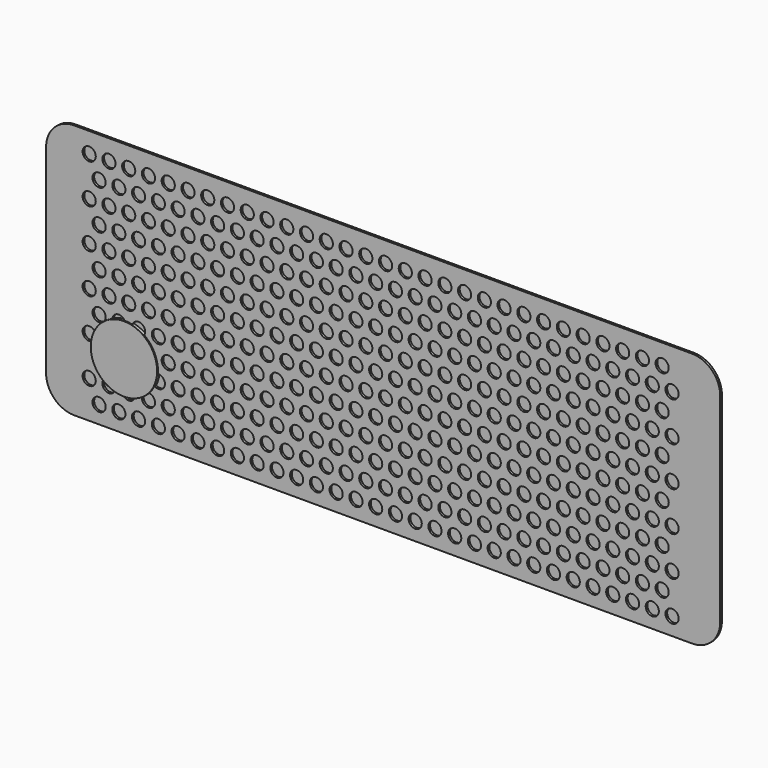
from build123d import *

# Parameters (mm, degrees)
F0_R          = 1.5875
F1_DEPTH      = 0.508
F2_W          = 153.419919312
F2_H          = 57.291561259
F3_DEPTH      = 0.508
F4_R          = 8
F5_DEPTH      = 0.508
F5_DEPTH_BACK = 0.254


with BuildPart() as f1:
    # F0 (on Front) → F1 (new body)
    with BuildSketch(Plane.XZ):
        with BuildLine():
            Line((75.5389979759, 16.9910898476), (-73.4410020241, 16.9910898476))
            ThreePointArc((-73.4410020241, 16.9910898476), (-78.2210438649, 15.0111316884), (-80.2010020241, 10.2310898476))
            Line((-80.2010020241, 10.2310898476), (-80.2010020241, -37.7489101524))
            ThreePointArc((-80.2010020241, -37.7489101524), (-78.2210438649, -42.5289519933), (-73.4410020241, -44.5089101524))
            Line((-73.4410020241, -44.5089101524), (75.5389979759, -44.5089101524))
            ThreePointArc((75.5389979759, -44.5089101524), (80.3190398167, -42.5289519933), (82.2989979759, -37.7489101524))
            Line((82.2989979759, -37.7489101524), (82.2989979759, 10.2310898476))
            ThreePointArc((82.2989979759, 10.2310898476), (80.3190398167, 15.0111316884), (75.5389979759, 16.9910898476))
        make_face()
        with Locations((-67.4290734172, -40.2764843822)):
            Circle(F0_R, mode=Mode.SUBTRACT)
        with Locations((-62.6665734172, -40.2764843822)):
            Circle(F0_R, mode=Mode.SUBTRACT)
        with Locations((-57.9040734172, -40.2764843822)):
            Circle(F0_R, mode=Mode.SUBTRACT)
        with Locations((-53.1415734172, -40.2764843822)):
            Circle(F0_R, mode=Mode.SUBTRACT)
        with Locations((-48.3790734172, -40.2764843822)):
            Circle(F0_R, mode=Mode.SUBTRACT)
        with Locations((-43.6165734172, -40.2764843822)):
            Circle(F0_R, mode=Mode.SUBTRACT)
        with Locations((-69.8103234172, -35.5139843822)):
            Circle(F0_R, mode=Mode.SUBTRACT)
        with Locations((-65.0478234172, -35.5139843822)):
            Circle(F0_R, mode=Mode.SUBTRACT)
        with Locations((-60.2853234172, -35.5139843822)):
            Circle(F0_R, mode=Mode.SUBTRACT)
        with Locations((-67.4290734172, -30.7514843822)):
            Circle(F0_R, mode=Mode.SUBTRACT)
        with Locations((-62.6665734172, -30.7514843822)):
            Circle(F0_R, mode=Mode.SUBTRACT)
        with Locations((-55.5228234172, -35.5139843822)):
            Circle(F0_R, mode=Mode.SUBTRACT)
        with Locations((-50.7603234172, -35.5139843822)):
            Circle(F0_R, mode=Mode.SUBTRACT)
        with Locations((-45.9978234172, -35.5139843822)):
            Circle(F0_R, mode=Mode.SUBTRACT)
        with Locations((-41.2353234172, -35.5139843822)):
            Circle(F0_R, mode=Mode.SUBTRACT)
        with Locations((-57.9040734172, -30.7514843822)):
            Circle(F0_R, mode=Mode.SUBTRACT)
        with Locations((-53.1415734172, -30.7514843822)):
            Circle(F0_R, mode=Mode.SUBTRACT)
        with Locations((-48.3790734172, -30.7514843822)):
            Circle(F0_R, mode=Mode.SUBTRACT)
        with Locations((-43.6165734172, -30.7514843822)):
            Circle(F0_R, mode=Mode.SUBTRACT)
        with Locations((-38.8540734172, -40.2764843822)):
            Circle(F0_R, mode=Mode.SUBTRACT)
        with Locations((-34.0915734172, -40.2764843822)):
            Circle(F0_R, mode=Mode.SUBTRACT)
        with Locations((-29.3290734172, -40.2764843822)):
            Circle(F0_R, mode=Mode.SUBTRACT)
        with Locations((-24.5665734172, -40.2764843822)):
            Circle(F0_R, mode=Mode.SUBTRACT)
        with Locations((-19.8040734172, -40.2764843822)):
            Circle(F0_R, mode=Mode.SUBTRACT)
        with Locations((-15.0415734172, -40.2764843822)):
            Circle(F0_R, mode=Mode.SUBTRACT)
        with Locations((-10.2790734172, -40.2764843822)):
            Circle(F0_R, mode=Mode.SUBTRACT)
        with Locations((-5.5165734172, -40.2764843822)):
            Circle(F0_R, mode=Mode.SUBTRACT)
        with Locations((-0.7540734172, -40.2764843822)):
            Circle(F0_R, mode=Mode.SUBTRACT)
        with Locations((-36.4728234172, -35.5139843822)):
            Circle(F0_R, mode=Mode.SUBTRACT)
        with Locations((-31.7103234172, -35.5139843822)):
            Circle(F0_R, mode=Mode.SUBTRACT)
        with Locations((-26.9478234172, -35.5139843822)):
            Circle(F0_R, mode=Mode.SUBTRACT)
        with Locations((-22.1853234172, -35.5139843822)):
            Circle(F0_R, mode=Mode.SUBTRACT)
        with Locations((-38.8540734172, -30.7514843822)):
            Circle(F0_R, mode=Mode.SUBTRACT)
        with Locations((-34.0915734172, -30.7514843822)):
            Circle(F0_R, mode=Mode.SUBTRACT)
        with Locations((-29.3290734172, -30.7514843822)):
            Circle(F0_R, mode=Mode.SUBTRACT)
        with Locations((-24.5665734172, -30.7514843822)):
            Circle(F0_R, mode=Mode.SUBTRACT)
        with Locations((-19.8040734172, -30.7514843822)):
            Circle(F0_R, mode=Mode.SUBTRACT)
        with Locations((-17.4228234172, -35.5139843822)):
            Circle(F0_R, mode=Mode.SUBTRACT)
        with Locations((-12.6603234172, -35.5139843822)):
            Circle(F0_R, mode=Mode.SUBTRACT)
        with Locations((-7.8978234172, -35.5139843822)):
            Circle(F0_R, mode=Mode.SUBTRACT)
        with Locations((-3.1353234172, -35.5139843822)):
            Circle(F0_R, mode=Mode.SUBTRACT)
        with Locations((-15.0415734172, -30.7514843822)):
            Circle(F0_R, mode=Mode.SUBTRACT)
        with Locations((-10.2790734172, -30.7514843822)):
            Circle(F0_R, mode=Mode.SUBTRACT)
        with Locations((-5.5165734172, -30.7514843822)):
            Circle(F0_R, mode=Mode.SUBTRACT)
        with Locations((-0.7540734172, -30.7514843822)):
            Circle(F0_R, mode=Mode.SUBTRACT)
        with Locations((-69.8103234172, -25.9889843822)):
            Circle(F0_R, mode=Mode.SUBTRACT)
        with Locations((-65.0478234172, -25.9889843822)):
            Circle(F0_R, mode=Mode.SUBTRACT)
        with Locations((-60.2853234172, -25.9889843822)):
            Circle(F0_R, mode=Mode.SUBTRACT)
        with Locations((-55.5228234172, -25.9889843822)):
            Circle(F0_R, mode=Mode.SUBTRACT)
        with Locations((-50.7603234172, -25.9889843822)):
            Circle(F0_R, mode=Mode.SUBTRACT)
        with Locations((-45.9978234172, -25.9889843822)):
            Circle(F0_R, mode=Mode.SUBTRACT)
        with Locations((-41.2353234172, -25.9889843822)):
            Circle(F0_R, mode=Mode.SUBTRACT)
        with Locations((-67.4290734172, -21.2264843822)):
            Circle(F0_R, mode=Mode.SUBTRACT)
        with Locations((-62.6665734172, -21.2264843822)):
            Circle(F0_R, mode=Mode.SUBTRACT)
        with Locations((-69.8103234172, -16.4639843822)):
            Circle(F0_R, mode=Mode.SUBTRACT)
        with Locations((-65.0478234172, -16.4639843822)):
            Circle(F0_R, mode=Mode.SUBTRACT)
        with Locations((-60.2853234172, -16.4639843822)):
            Circle(F0_R, mode=Mode.SUBTRACT)
        with Locations((-57.9040734172, -21.2264843822)):
            Circle(F0_R, mode=Mode.SUBTRACT)
        with Locations((-53.1415734172, -21.2264843822)):
            Circle(F0_R, mode=Mode.SUBTRACT)
        with Locations((-48.3790734172, -21.2264843822)):
            Circle(F0_R, mode=Mode.SUBTRACT)
        with Locations((-43.6165734172, -21.2264843822)):
            Circle(F0_R, mode=Mode.SUBTRACT)
        with Locations((-55.5228234172, -16.4639843822)):
            Circle(F0_R, mode=Mode.SUBTRACT)
        with Locations((-50.7603234172, -16.4639843822)):
            Circle(F0_R, mode=Mode.SUBTRACT)
        with Locations((-45.9978234172, -16.4639843822)):
            Circle(F0_R, mode=Mode.SUBTRACT)
        with Locations((-41.2353234172, -16.4639843822)):
            Circle(F0_R, mode=Mode.SUBTRACT)
        with Locations((-36.4728234172, -25.9889843822)):
            Circle(F0_R, mode=Mode.SUBTRACT)
        with Locations((-31.7103234172, -25.9889843822)):
            Circle(F0_R, mode=Mode.SUBTRACT)
        with Locations((-26.9478234172, -25.9889843822)):
            Circle(F0_R, mode=Mode.SUBTRACT)
        with Locations((-22.1853234172, -25.9889843822)):
            Circle(F0_R, mode=Mode.SUBTRACT)
        with Locations((-17.4228234172, -25.9889843822)):
            Circle(F0_R, mode=Mode.SUBTRACT)
        with Locations((-12.6603234172, -25.9889843822)):
            Circle(F0_R, mode=Mode.SUBTRACT)
        with Locations((-7.8978234172, -25.9889843822)):
            Circle(F0_R, mode=Mode.SUBTRACT)
        with Locations((-3.1353234172, -25.9889843822)):
            Circle(F0_R, mode=Mode.SUBTRACT)
        with Locations((-38.8540734172, -21.2264843822)):
            Circle(F0_R, mode=Mode.SUBTRACT)
        with Locations((-34.0915734172, -21.2264843822)):
            Circle(F0_R, mode=Mode.SUBTRACT)
        with Locations((-29.3290734172, -21.2264843822)):
            Circle(F0_R, mode=Mode.SUBTRACT)
        with Locations((-24.5665734172, -21.2264843822)):
            Circle(F0_R, mode=Mode.SUBTRACT)
        with Locations((-19.8040734172, -21.2264843822)):
            Circle(F0_R, mode=Mode.SUBTRACT)
        with Locations((-36.4728234172, -16.4639843822)):
            Circle(F0_R, mode=Mode.SUBTRACT)
        with Locations((-31.7103234172, -16.4639843822)):
            Circle(F0_R, mode=Mode.SUBTRACT)
        with Locations((-26.9478234172, -16.4639843822)):
            Circle(F0_R, mode=Mode.SUBTRACT)
        with Locations((-22.1853234172, -16.4639843822)):
            Circle(F0_R, mode=Mode.SUBTRACT)
        with Locations((-15.0415734172, -21.2264843822)):
            Circle(F0_R, mode=Mode.SUBTRACT)
        with Locations((-10.2790734172, -21.2264843822)):
            Circle(F0_R, mode=Mode.SUBTRACT)
        with Locations((-5.5165734172, -21.2264843822)):
            Circle(F0_R, mode=Mode.SUBTRACT)
        with Locations((-0.7540734172, -21.2264843822)):
            Circle(F0_R, mode=Mode.SUBTRACT)
        with Locations((-17.4228234172, -16.4639843822)):
            Circle(F0_R, mode=Mode.SUBTRACT)
        with Locations((-12.6603234172, -16.4639843822)):
            Circle(F0_R, mode=Mode.SUBTRACT)
        with Locations((-7.8978234172, -16.4639843822)):
            Circle(F0_R, mode=Mode.SUBTRACT)
        with Locations((-3.1353234172, -16.4639843822)):
            Circle(F0_R, mode=Mode.SUBTRACT)
        with Locations((4.0084265828, -40.2764843822)):
            Circle(F0_R, mode=Mode.SUBTRACT)
        with Locations((8.7709265828, -40.2764843822)):
            Circle(F0_R, mode=Mode.SUBTRACT)
        with Locations((13.5334265828, -40.2764843822)):
            Circle(F0_R, mode=Mode.SUBTRACT)
        with Locations((18.2959265828, -40.2764843822)):
            Circle(F0_R, mode=Mode.SUBTRACT)
        with Locations((23.0584265828, -40.2764843822)):
            Circle(F0_R, mode=Mode.SUBTRACT)
        with Locations((27.8209265828, -40.2764843822)):
            Circle(F0_R, mode=Mode.SUBTRACT)
        with Locations((32.5834265828, -40.2764843822)):
            Circle(F0_R, mode=Mode.SUBTRACT)
        with Locations((37.3459265828, -40.2764843822)):
            Circle(F0_R, mode=Mode.SUBTRACT)
        with Locations((1.6271765828, -35.5139843822)):
            Circle(F0_R, mode=Mode.SUBTRACT)
        with Locations((6.3896765828, -35.5139843822)):
            Circle(F0_R, mode=Mode.SUBTRACT)
        with Locations((11.1521765828, -35.5139843822)):
            Circle(F0_R, mode=Mode.SUBTRACT)
        with Locations((15.9146765828, -35.5139843822)):
            Circle(F0_R, mode=Mode.SUBTRACT)
        with Locations((20.6771765828, -35.5139843822)):
            Circle(F0_R, mode=Mode.SUBTRACT)
        with Locations((4.0084265828, -30.7514843822)):
            Circle(F0_R, mode=Mode.SUBTRACT)
        with Locations((8.7709265828, -30.7514843822)):
            Circle(F0_R, mode=Mode.SUBTRACT)
        with Locations((13.5334265828, -30.7514843822)):
            Circle(F0_R, mode=Mode.SUBTRACT)
        with Locations((18.2959265828, -30.7514843822)):
            Circle(F0_R, mode=Mode.SUBTRACT)
        with Locations((25.4396765828, -35.5139843822)):
            Circle(F0_R, mode=Mode.SUBTRACT)
        with Locations((30.2021765828, -35.5139843822)):
            Circle(F0_R, mode=Mode.SUBTRACT)
        with Locations((34.9646765828, -35.5139843822)):
            Circle(F0_R, mode=Mode.SUBTRACT)
        with Locations((39.7271765828, -35.5139843822)):
            Circle(F0_R, mode=Mode.SUBTRACT)
        with Locations((23.0584265828, -30.7514843822)):
            Circle(F0_R, mode=Mode.SUBTRACT)
        with Locations((27.8209265828, -30.7514843822)):
            Circle(F0_R, mode=Mode.SUBTRACT)
        with Locations((32.5834265828, -30.7514843822)):
            Circle(F0_R, mode=Mode.SUBTRACT)
        with Locations((37.3459265828, -30.7514843822)):
            Circle(F0_R, mode=Mode.SUBTRACT)
        with Locations((42.1084265828, -40.2764843822)):
            Circle(F0_R, mode=Mode.SUBTRACT)
        with Locations((46.8709265828, -40.2764843822)):
            Circle(F0_R, mode=Mode.SUBTRACT)
        with Locations((51.6334265828, -40.2764843822)):
            Circle(F0_R, mode=Mode.SUBTRACT)
        with Locations((56.3959265828, -40.2764843822)):
            Circle(F0_R, mode=Mode.SUBTRACT)
        with Locations((61.1584265828, -40.2764843822)):
            Circle(F0_R, mode=Mode.SUBTRACT)
        with Locations((65.9209265828, -40.2764843822)):
            Circle(F0_R, mode=Mode.SUBTRACT)
        with Locations((70.6834265828, -40.2764843822)):
            Circle(F0_R, mode=Mode.SUBTRACT)
        with Locations((44.4896765828, -35.5139843822)):
            Circle(F0_R, mode=Mode.SUBTRACT)
        with Locations((49.2521765828, -35.5139843822)):
            Circle(F0_R, mode=Mode.SUBTRACT)
        with Locations((54.0146765828, -35.5139843822)):
            Circle(F0_R, mode=Mode.SUBTRACT)
        with Locations((58.7771765828, -35.5139843822)):
            Circle(F0_R, mode=Mode.SUBTRACT)
        with Locations((42.1084265828, -30.7514843822)):
            Circle(F0_R, mode=Mode.SUBTRACT)
        with Locations((46.8709265828, -30.7514843822)):
            Circle(F0_R, mode=Mode.SUBTRACT)
        with Locations((51.6334265828, -30.7514843822)):
            Circle(F0_R, mode=Mode.SUBTRACT)
        with Locations((56.3959265828, -30.7514843822)):
            Circle(F0_R, mode=Mode.SUBTRACT)
        with Locations((61.1584265828, -30.7514843822)):
            Circle(F0_R, mode=Mode.SUBTRACT)
        with Locations((63.5396765828, -35.5139843822)):
            Circle(F0_R, mode=Mode.SUBTRACT)
        with Locations((68.3021765828, -35.5139843822)):
            Circle(F0_R, mode=Mode.SUBTRACT)
        with Locations((65.9209265828, -30.7514843822)):
            Circle(F0_R, mode=Mode.SUBTRACT)
        with Locations((70.6834265828, -30.7514843822)):
            Circle(F0_R, mode=Mode.SUBTRACT)
        with Locations((1.6271765828, -25.9889843822)):
            Circle(F0_R, mode=Mode.SUBTRACT)
        with Locations((6.3896765828, -25.9889843822)):
            Circle(F0_R, mode=Mode.SUBTRACT)
        with Locations((11.1521765828, -25.9889843822)):
            Circle(F0_R, mode=Mode.SUBTRACT)
        with Locations((15.9146765828, -25.9889843822)):
            Circle(F0_R, mode=Mode.SUBTRACT)
        with Locations((20.6771765828, -25.9889843822)):
            Circle(F0_R, mode=Mode.SUBTRACT)
        with Locations((25.4396765828, -25.9889843822)):
            Circle(F0_R, mode=Mode.SUBTRACT)
        with Locations((30.2021765828, -25.9889843822)):
            Circle(F0_R, mode=Mode.SUBTRACT)
        with Locations((34.9646765828, -25.9889843822)):
            Circle(F0_R, mode=Mode.SUBTRACT)
        with Locations((39.7271765828, -25.9889843822)):
            Circle(F0_R, mode=Mode.SUBTRACT)
        with Locations((4.0084265828, -21.2264843822)):
            Circle(F0_R, mode=Mode.SUBTRACT)
        with Locations((8.7709265828, -21.2264843822)):
            Circle(F0_R, mode=Mode.SUBTRACT)
        with Locations((13.5334265828, -21.2264843822)):
            Circle(F0_R, mode=Mode.SUBTRACT)
        with Locations((18.2959265828, -21.2264843822)):
            Circle(F0_R, mode=Mode.SUBTRACT)
        with Locations((1.6271765828, -16.4639843822)):
            Circle(F0_R, mode=Mode.SUBTRACT)
        with Locations((6.3896765828, -16.4639843822)):
            Circle(F0_R, mode=Mode.SUBTRACT)
        with Locations((11.1521765828, -16.4639843822)):
            Circle(F0_R, mode=Mode.SUBTRACT)
        with Locations((15.9146765828, -16.4639843822)):
            Circle(F0_R, mode=Mode.SUBTRACT)
        with Locations((20.6771765828, -16.4639843822)):
            Circle(F0_R, mode=Mode.SUBTRACT)
        with Locations((23.0584265828, -21.2264843822)):
            Circle(F0_R, mode=Mode.SUBTRACT)
        with Locations((27.8209265828, -21.2264843822)):
            Circle(F0_R, mode=Mode.SUBTRACT)
        with Locations((32.5834265828, -21.2264843822)):
            Circle(F0_R, mode=Mode.SUBTRACT)
        with Locations((37.3459265828, -21.2264843822)):
            Circle(F0_R, mode=Mode.SUBTRACT)
        with Locations((25.4396765828, -16.4639843822)):
            Circle(F0_R, mode=Mode.SUBTRACT)
        with Locations((30.2021765828, -16.4639843822)):
            Circle(F0_R, mode=Mode.SUBTRACT)
        with Locations((34.9646765828, -16.4639843822)):
            Circle(F0_R, mode=Mode.SUBTRACT)
        with Locations((39.7271765828, -16.4639843822)):
            Circle(F0_R, mode=Mode.SUBTRACT)
        with Locations((44.4896765828, -25.9889843822)):
            Circle(F0_R, mode=Mode.SUBTRACT)
        with Locations((49.2521765828, -25.9889843822)):
            Circle(F0_R, mode=Mode.SUBTRACT)
        with Locations((54.0146765828, -25.9889843822)):
            Circle(F0_R, mode=Mode.SUBTRACT)
        with Locations((58.7771765828, -25.9889843822)):
            Circle(F0_R, mode=Mode.SUBTRACT)
        with Locations((63.5396765828, -25.9889843822)):
            Circle(F0_R, mode=Mode.SUBTRACT)
        with Locations((68.3021765828, -25.9889843822)):
            Circle(F0_R, mode=Mode.SUBTRACT)
        with Locations((42.1084265828, -21.2264843822)):
            Circle(F0_R, mode=Mode.SUBTRACT)
        with Locations((46.8709265828, -21.2264843822)):
            Circle(F0_R, mode=Mode.SUBTRACT)
        with Locations((51.6334265828, -21.2264843822)):
            Circle(F0_R, mode=Mode.SUBTRACT)
        with Locations((56.3959265828, -21.2264843822)):
            Circle(F0_R, mode=Mode.SUBTRACT)
        with Locations((61.1584265828, -21.2264843822)):
            Circle(F0_R, mode=Mode.SUBTRACT)
        with Locations((44.4896765828, -16.4639843822)):
            Circle(F0_R, mode=Mode.SUBTRACT)
        with Locations((49.2521765828, -16.4639843822)):
            Circle(F0_R, mode=Mode.SUBTRACT)
        with Locations((54.0146765828, -16.4639843822)):
            Circle(F0_R, mode=Mode.SUBTRACT)
        with Locations((58.7771765828, -16.4639843822)):
            Circle(F0_R, mode=Mode.SUBTRACT)
        with Locations((65.9209265828, -21.2264843822)):
            Circle(F0_R, mode=Mode.SUBTRACT)
        with Locations((70.6834265828, -21.2264843822)):
            Circle(F0_R, mode=Mode.SUBTRACT)
        with Locations((63.5396765828, -16.4639843822)):
            Circle(F0_R, mode=Mode.SUBTRACT)
        with Locations((68.3021765828, -16.4639843822)):
            Circle(F0_R, mode=Mode.SUBTRACT)
        with Locations((-67.4290734172, -11.7014843822)):
            Circle(F0_R, mode=Mode.SUBTRACT)
        with Locations((-62.6665734172, -11.7014843822)):
            Circle(F0_R, mode=Mode.SUBTRACT)
        with Locations((-69.8103234172, -6.9389843822)):
            Circle(F0_R, mode=Mode.SUBTRACT)
        with Locations((-65.0478234172, -6.9389843822)):
            Circle(F0_R, mode=Mode.SUBTRACT)
        with Locations((-60.2853234172, -6.9389843822)):
            Circle(F0_R, mode=Mode.SUBTRACT)
        with Locations((-57.9040734172, -11.7014843822)):
            Circle(F0_R, mode=Mode.SUBTRACT)
        with Locations((-53.1415734172, -11.7014843822)):
            Circle(F0_R, mode=Mode.SUBTRACT)
        with Locations((-48.3790734172, -11.7014843822)):
            Circle(F0_R, mode=Mode.SUBTRACT)
        with Locations((-43.6165734172, -11.7014843822)):
            Circle(F0_R, mode=Mode.SUBTRACT)
        with Locations((-55.5228234172, -6.9389843822)):
            Circle(F0_R, mode=Mode.SUBTRACT)
        with Locations((-50.7603234172, -6.9389843822)):
            Circle(F0_R, mode=Mode.SUBTRACT)
        with Locations((-45.9978234172, -6.9389843822)):
            Circle(F0_R, mode=Mode.SUBTRACT)
        with Locations((-41.2353234172, -6.9389843822)):
            Circle(F0_R, mode=Mode.SUBTRACT)
        with Locations((-67.4290734172, -2.1764843822)):
            Circle(F0_R, mode=Mode.SUBTRACT)
        with Locations((-62.6665734172, -2.1764843822)):
            Circle(F0_R, mode=Mode.SUBTRACT)
        with Locations((-57.9040734172, -2.1764843822)):
            Circle(F0_R, mode=Mode.SUBTRACT)
        with Locations((-53.1415734172, -2.1764843822)):
            Circle(F0_R, mode=Mode.SUBTRACT)
        with Locations((-48.3790734172, -2.1764843822)):
            Circle(F0_R, mode=Mode.SUBTRACT)
        with Locations((-43.6165734172, -2.1764843822)):
            Circle(F0_R, mode=Mode.SUBTRACT)
        with Locations((-38.8540734172, -11.7014843822)):
            Circle(F0_R, mode=Mode.SUBTRACT)
        with Locations((-34.0915734172, -11.7014843822)):
            Circle(F0_R, mode=Mode.SUBTRACT)
        with Locations((-29.3290734172, -11.7014843822)):
            Circle(F0_R, mode=Mode.SUBTRACT)
        with Locations((-24.5665734172, -11.7014843822)):
            Circle(F0_R, mode=Mode.SUBTRACT)
        with Locations((-19.8040734172, -11.7014843822)):
            Circle(F0_R, mode=Mode.SUBTRACT)
        with Locations((-36.4728234172, -6.9389843822)):
            Circle(F0_R, mode=Mode.SUBTRACT)
        with Locations((-31.7103234172, -6.9389843822)):
            Circle(F0_R, mode=Mode.SUBTRACT)
        with Locations((-26.9478234172, -6.9389843822)):
            Circle(F0_R, mode=Mode.SUBTRACT)
        with Locations((-22.1853234172, -6.9389843822)):
            Circle(F0_R, mode=Mode.SUBTRACT)
        with Locations((-15.0415734172, -11.7014843822)):
            Circle(F0_R, mode=Mode.SUBTRACT)
        with Locations((-10.2790734172, -11.7014843822)):
            Circle(F0_R, mode=Mode.SUBTRACT)
        with Locations((-5.5165734172, -11.7014843822)):
            Circle(F0_R, mode=Mode.SUBTRACT)
        with Locations((-0.7540734172, -11.7014843822)):
            Circle(F0_R, mode=Mode.SUBTRACT)
        with Locations((-17.4228234172, -6.9389843822)):
            Circle(F0_R, mode=Mode.SUBTRACT)
        with Locations((-12.6603234172, -6.9389843822)):
            Circle(F0_R, mode=Mode.SUBTRACT)
        with Locations((-7.8978234172, -6.9389843822)):
            Circle(F0_R, mode=Mode.SUBTRACT)
        with Locations((-3.1353234172, -6.9389843822)):
            Circle(F0_R, mode=Mode.SUBTRACT)
        with Locations((-38.8540734172, -2.1764843822)):
            Circle(F0_R, mode=Mode.SUBTRACT)
        with Locations((-34.0915734172, -2.1764843822)):
            Circle(F0_R, mode=Mode.SUBTRACT)
        with Locations((-29.3290734172, -2.1764843822)):
            Circle(F0_R, mode=Mode.SUBTRACT)
        with Locations((-24.5665734172, -2.1764843822)):
            Circle(F0_R, mode=Mode.SUBTRACT)
        with Locations((-19.8040734172, -2.1764843822)):
            Circle(F0_R, mode=Mode.SUBTRACT)
        with Locations((-15.0415734172, -2.1764843822)):
            Circle(F0_R, mode=Mode.SUBTRACT)
        with Locations((-10.2790734172, -2.1764843822)):
            Circle(F0_R, mode=Mode.SUBTRACT)
        with Locations((-5.5165734172, -2.1764843822)):
            Circle(F0_R, mode=Mode.SUBTRACT)
        with Locations((-0.7540734172, -2.1764843822)):
            Circle(F0_R, mode=Mode.SUBTRACT)
        with Locations((-69.8103234172, 2.5860156178)):
            Circle(F0_R, mode=Mode.SUBTRACT)
        with BuildLine():
            ThreePointArc((-63.4603234172, 2.5860156178), (-65.8824215577, 1.2356074596), (-65.757775, 4.0059187836))
            ThreePointArc((-65.757775, 4.0059187836), (-64.2132252767, 3.9364237761), (-63.4603234172, 2.5860156178))
        make_face(mode=Mode.SUBTRACT)
        with Locations((-60.2853234172, 2.5860156178)):
            Circle(F0_R, mode=Mode.SUBTRACT)
        with BuildLine():
            ThreePointArc((-66.7191218343, 5.9286124521), (-68.8489765829, 6.638564035), (-68.139025, 8.7684187836))
            ThreePointArc((-68.139025, 8.7684187836), (-66.5944752767, 8.6989237761), (-65.8415734172, 7.3485156178))
            ThreePointArc((-65.8415734172, 7.3485156178), (-66.0786652589, 6.5139174774), (-66.7191218343, 5.9286124521))
        make_face(mode=Mode.SUBTRACT)
        with Locations((-62.6665734172, 7.3485156178)):
            Circle(F0_R, mode=Mode.SUBTRACT)
        with Locations((-55.5228234172, 2.5860156178)):
            Circle(F0_R, mode=Mode.SUBTRACT)
        with Locations((-50.7603234172, 2.5860156178)):
            Circle(F0_R, mode=Mode.SUBTRACT)
        with Locations((-45.9978234172, 2.5860156178)):
            Circle(F0_R, mode=Mode.SUBTRACT)
        with Locations((-41.2353234172, 2.5860156178)):
            Circle(F0_R, mode=Mode.SUBTRACT)
        with Locations((-57.9040734172, 7.3485156178)):
            Circle(F0_R, mode=Mode.SUBTRACT)
        with Locations((-53.1415734172, 7.3485156178)):
            Circle(F0_R, mode=Mode.SUBTRACT)
        with Locations((-48.3790734172, 7.3485156178)):
            Circle(F0_R, mode=Mode.SUBTRACT)
        with Locations((-43.6165734172, 7.3485156178)):
            Circle(F0_R, mode=Mode.SUBTRACT)
        with BuildLine():
            ThreePointArc((-69.1003718343, 10.6911124521), (-71.1607315754, 12.9456137583), (-68.2228234172, 12.1110156178))
            ThreePointArc((-68.2228234172, 12.1110156178), (-68.4599152589, 11.2764174774), (-69.1003718343, 10.6911124521))
        make_face(mode=Mode.SUBTRACT)
        with Locations((-65.0478234172, 12.1110156178)):
            Circle(F0_R, mode=Mode.SUBTRACT)
        with Locations((-60.2853234172, 12.1110156178)):
            Circle(F0_R, mode=Mode.SUBTRACT)
        with Locations((-55.5228234172, 12.1110156178)):
            Circle(F0_R, mode=Mode.SUBTRACT)
        with Locations((-50.7603234172, 12.1110156178)):
            Circle(F0_R, mode=Mode.SUBTRACT)
        with Locations((-45.9978234172, 12.1110156178)):
            Circle(F0_R, mode=Mode.SUBTRACT)
        with Locations((-41.2353234172, 12.1110156178)):
            Circle(F0_R, mode=Mode.SUBTRACT)
        with Locations((-36.4728234172, 2.5860156178)):
            Circle(F0_R, mode=Mode.SUBTRACT)
        with Locations((-31.7103234172, 2.5860156178)):
            Circle(F0_R, mode=Mode.SUBTRACT)
        with Locations((-26.9478234172, 2.5860156178)):
            Circle(F0_R, mode=Mode.SUBTRACT)
        with Locations((-22.1853234172, 2.5860156178)):
            Circle(F0_R, mode=Mode.SUBTRACT)
        with Locations((-38.8540734172, 7.3485156178)):
            Circle(F0_R, mode=Mode.SUBTRACT)
        with Locations((-34.0915734172, 7.3485156178)):
            Circle(F0_R, mode=Mode.SUBTRACT)
        with Locations((-29.3290734172, 7.3485156178)):
            Circle(F0_R, mode=Mode.SUBTRACT)
        with Locations((-24.5665734172, 7.3485156178)):
            Circle(F0_R, mode=Mode.SUBTRACT)
        with Locations((-19.8040734172, 7.3485156178)):
            Circle(F0_R, mode=Mode.SUBTRACT)
        with Locations((-17.4228234172, 2.5860156178)):
            Circle(F0_R, mode=Mode.SUBTRACT)
        with Locations((-12.6603234172, 2.5860156178)):
            Circle(F0_R, mode=Mode.SUBTRACT)
        with Locations((-7.8978234172, 2.5860156178)):
            Circle(F0_R, mode=Mode.SUBTRACT)
        with Locations((-3.1353234172, 2.5860156178)):
            Circle(F0_R, mode=Mode.SUBTRACT)
        with Locations((-15.0415734172, 7.3485156178)):
            Circle(F0_R, mode=Mode.SUBTRACT)
        with Locations((-10.2790734172, 7.3485156178)):
            Circle(F0_R, mode=Mode.SUBTRACT)
        with Locations((-5.5165734172, 7.3485156178)):
            Circle(F0_R, mode=Mode.SUBTRACT)
        with Locations((-0.7540734172, 7.3485156178)):
            Circle(F0_R, mode=Mode.SUBTRACT)
        with Locations((-36.4728234172, 12.1110156178)):
            Circle(F0_R, mode=Mode.SUBTRACT)
        with Locations((-31.7103234172, 12.1110156178)):
            Circle(F0_R, mode=Mode.SUBTRACT)
        with Locations((-26.9478234172, 12.1110156178)):
            Circle(F0_R, mode=Mode.SUBTRACT)
        with Locations((-22.1853234172, 12.1110156178)):
            Circle(F0_R, mode=Mode.SUBTRACT)
        with Locations((-17.4228234172, 12.1110156178)):
            Circle(F0_R, mode=Mode.SUBTRACT)
        with Locations((-12.6603234172, 12.1110156178)):
            Circle(F0_R, mode=Mode.SUBTRACT)
        with Locations((-7.8978234172, 12.1110156178)):
            Circle(F0_R, mode=Mode.SUBTRACT)
        with Locations((-3.1353234172, 12.1110156178)):
            Circle(F0_R, mode=Mode.SUBTRACT)
        with Locations((4.0084265828, -11.7014843822)):
            Circle(F0_R, mode=Mode.SUBTRACT)
        with Locations((8.7709265828, -11.7014843822)):
            Circle(F0_R, mode=Mode.SUBTRACT)
        with Locations((13.5334265828, -11.7014843822)):
            Circle(F0_R, mode=Mode.SUBTRACT)
        with Locations((18.2959265828, -11.7014843822)):
            Circle(F0_R, mode=Mode.SUBTRACT)
        with Locations((1.6271765828, -6.9389843822)):
            Circle(F0_R, mode=Mode.SUBTRACT)
        with Locations((6.3896765828, -6.9389843822)):
            Circle(F0_R, mode=Mode.SUBTRACT)
        with Locations((11.1521765828, -6.9389843822)):
            Circle(F0_R, mode=Mode.SUBTRACT)
        with Locations((15.9146765828, -6.9389843822)):
            Circle(F0_R, mode=Mode.SUBTRACT)
        with Locations((20.6771765828, -6.9389843822)):
            Circle(F0_R, mode=Mode.SUBTRACT)
        with Locations((23.0584265828, -11.7014843822)):
            Circle(F0_R, mode=Mode.SUBTRACT)
        with Locations((27.8209265828, -11.7014843822)):
            Circle(F0_R, mode=Mode.SUBTRACT)
        with Locations((32.5834265828, -11.7014843822)):
            Circle(F0_R, mode=Mode.SUBTRACT)
        with Locations((37.3459265828, -11.7014843822)):
            Circle(F0_R, mode=Mode.SUBTRACT)
        with Locations((25.4396765828, -6.9389843822)):
            Circle(F0_R, mode=Mode.SUBTRACT)
        with Locations((30.2021765828, -6.9389843822)):
            Circle(F0_R, mode=Mode.SUBTRACT)
        with Locations((34.9646765828, -6.9389843822)):
            Circle(F0_R, mode=Mode.SUBTRACT)
        with Locations((39.7271765828, -6.9389843822)):
            Circle(F0_R, mode=Mode.SUBTRACT)
        with Locations((4.0084265828, -2.1764843822)):
            Circle(F0_R, mode=Mode.SUBTRACT)
        with Locations((8.7709265828, -2.1764843822)):
            Circle(F0_R, mode=Mode.SUBTRACT)
        with Locations((13.5334265828, -2.1764843822)):
            Circle(F0_R, mode=Mode.SUBTRACT)
        with Locations((18.2959265828, -2.1764843822)):
            Circle(F0_R, mode=Mode.SUBTRACT)
        with Locations((23.0584265828, -2.1764843822)):
            Circle(F0_R, mode=Mode.SUBTRACT)
        with Locations((27.8209265828, -2.1764843822)):
            Circle(F0_R, mode=Mode.SUBTRACT)
        with Locations((32.5834265828, -2.1764843822)):
            Circle(F0_R, mode=Mode.SUBTRACT)
        with Locations((37.3459265828, -2.1764843822)):
            Circle(F0_R, mode=Mode.SUBTRACT)
        with Locations((42.1084265828, -11.7014843822)):
            Circle(F0_R, mode=Mode.SUBTRACT)
        with Locations((46.8709265828, -11.7014843822)):
            Circle(F0_R, mode=Mode.SUBTRACT)
        with Locations((51.6334265828, -11.7014843822)):
            Circle(F0_R, mode=Mode.SUBTRACT)
        with Locations((56.3959265828, -11.7014843822)):
            Circle(F0_R, mode=Mode.SUBTRACT)
        with Locations((61.1584265828, -11.7014843822)):
            Circle(F0_R, mode=Mode.SUBTRACT)
        with Locations((44.4896765828, -6.9389843822)):
            Circle(F0_R, mode=Mode.SUBTRACT)
        with Locations((49.2521765828, -6.9389843822)):
            Circle(F0_R, mode=Mode.SUBTRACT)
        with Locations((54.0146765828, -6.9389843822)):
            Circle(F0_R, mode=Mode.SUBTRACT)
        with Locations((58.7771765828, -6.9389843822)):
            Circle(F0_R, mode=Mode.SUBTRACT)
        with Locations((65.9209265828, -11.7014843822)):
            Circle(F0_R, mode=Mode.SUBTRACT)
        with Locations((70.6834265828, -11.7014843822)):
            Circle(F0_R, mode=Mode.SUBTRACT)
        with Locations((63.5396765828, -6.9389843822)):
            Circle(F0_R, mode=Mode.SUBTRACT)
        with Locations((68.3021765828, -6.9389843822)):
            Circle(F0_R, mode=Mode.SUBTRACT)
        with Locations((42.1084265828, -2.1764843822)):
            Circle(F0_R, mode=Mode.SUBTRACT)
        with Locations((46.8709265828, -2.1764843822)):
            Circle(F0_R, mode=Mode.SUBTRACT)
        with Locations((51.6334265828, -2.1764843822)):
            Circle(F0_R, mode=Mode.SUBTRACT)
        with Locations((56.3959265828, -2.1764843822)):
            Circle(F0_R, mode=Mode.SUBTRACT)
        with Locations((61.1584265828, -2.1764843822)):
            Circle(F0_R, mode=Mode.SUBTRACT)
        with Locations((65.9209265828, -2.1764843822)):
            Circle(F0_R, mode=Mode.SUBTRACT)
        with Locations((70.6834265828, -2.1764843822)):
            Circle(F0_R, mode=Mode.SUBTRACT)
        with Locations((1.6271765828, 2.5860156178)):
            Circle(F0_R, mode=Mode.SUBTRACT)
        with Locations((6.3896765828, 2.5860156178)):
            Circle(F0_R, mode=Mode.SUBTRACT)
        with Locations((11.1521765828, 2.5860156178)):
            Circle(F0_R, mode=Mode.SUBTRACT)
        with Locations((15.9146765828, 2.5860156178)):
            Circle(F0_R, mode=Mode.SUBTRACT)
        with Locations((20.6771765828, 2.5860156178)):
            Circle(F0_R, mode=Mode.SUBTRACT)
        with Locations((4.0084265828, 7.3485156178)):
            Circle(F0_R, mode=Mode.SUBTRACT)
        with Locations((8.7709265828, 7.3485156178)):
            Circle(F0_R, mode=Mode.SUBTRACT)
        with Locations((13.5334265828, 7.3485156178)):
            Circle(F0_R, mode=Mode.SUBTRACT)
        with Locations((18.2959265828, 7.3485156178)):
            Circle(F0_R, mode=Mode.SUBTRACT)
        with Locations((25.4396765828, 2.5860156178)):
            Circle(F0_R, mode=Mode.SUBTRACT)
        with Locations((30.2021765828, 2.5860156178)):
            Circle(F0_R, mode=Mode.SUBTRACT)
        with Locations((34.9646765828, 2.5860156178)):
            Circle(F0_R, mode=Mode.SUBTRACT)
        with Locations((39.7271765828, 2.5860156178)):
            Circle(F0_R, mode=Mode.SUBTRACT)
        with Locations((23.0584265828, 7.3485156178)):
            Circle(F0_R, mode=Mode.SUBTRACT)
        with Locations((27.8209265828, 7.3485156178)):
            Circle(F0_R, mode=Mode.SUBTRACT)
        with Locations((32.5834265828, 7.3485156178)):
            Circle(F0_R, mode=Mode.SUBTRACT)
        with Locations((37.3459265828, 7.3485156178)):
            Circle(F0_R, mode=Mode.SUBTRACT)
        with Locations((1.6271765828, 12.1110156178)):
            Circle(F0_R, mode=Mode.SUBTRACT)
        with Locations((6.3896765828, 12.1110156178)):
            Circle(F0_R, mode=Mode.SUBTRACT)
        with Locations((11.1521765828, 12.1110156178)):
            Circle(F0_R, mode=Mode.SUBTRACT)
        with Locations((15.9146765828, 12.1110156178)):
            Circle(F0_R, mode=Mode.SUBTRACT)
        with Locations((20.6771765828, 12.1110156178)):
            Circle(F0_R, mode=Mode.SUBTRACT)
        with Locations((25.4396765828, 12.1110156178)):
            Circle(F0_R, mode=Mode.SUBTRACT)
        with Locations((30.2021765828, 12.1110156178)):
            Circle(F0_R, mode=Mode.SUBTRACT)
        with Locations((34.9646765828, 12.1110156178)):
            Circle(F0_R, mode=Mode.SUBTRACT)
        with Locations((39.7271765828, 12.1110156178)):
            Circle(F0_R, mode=Mode.SUBTRACT)
        with Locations((44.4896765828, 2.5860156178)):
            Circle(F0_R, mode=Mode.SUBTRACT)
        with Locations((49.2521765828, 2.5860156178)):
            Circle(F0_R, mode=Mode.SUBTRACT)
        with Locations((54.0146765828, 2.5860156178)):
            Circle(F0_R, mode=Mode.SUBTRACT)
        with Locations((58.7771765828, 2.5860156178)):
            Circle(F0_R, mode=Mode.SUBTRACT)
        with Locations((42.1084265828, 7.3485156178)):
            Circle(F0_R, mode=Mode.SUBTRACT)
        with Locations((46.8709265828, 7.3485156178)):
            Circle(F0_R, mode=Mode.SUBTRACT)
        with Locations((51.6334265828, 7.3485156178)):
            Circle(F0_R, mode=Mode.SUBTRACT)
        with Locations((56.3959265828, 7.3485156178)):
            Circle(F0_R, mode=Mode.SUBTRACT)
        with Locations((61.1584265828, 7.3485156178)):
            Circle(F0_R, mode=Mode.SUBTRACT)
        with Locations((63.5396765828, 2.5860156178)):
            Circle(F0_R, mode=Mode.SUBTRACT)
        with Locations((68.3021765828, 2.5860156178)):
            Circle(F0_R, mode=Mode.SUBTRACT)
        with Locations((65.9209265828, 7.3485156178)):
            Circle(F0_R, mode=Mode.SUBTRACT)
        with Locations((70.6834265828, 7.3485156178)):
            Circle(F0_R, mode=Mode.SUBTRACT)
        with Locations((44.4896765828, 12.1110156178)):
            Circle(F0_R, mode=Mode.SUBTRACT)
        with Locations((49.2521765828, 12.1110156178)):
            Circle(F0_R, mode=Mode.SUBTRACT)
        with Locations((54.0146765828, 12.1110156178)):
            Circle(F0_R, mode=Mode.SUBTRACT)
        with Locations((58.7771765828, 12.1110156178)):
            Circle(F0_R, mode=Mode.SUBTRACT)
        with Locations((63.5396765828, 12.1110156178)):
            Circle(F0_R, mode=Mode.SUBTRACT)
        with Locations((68.3021765828, 12.1110156178)):
            Circle(F0_R, mode=Mode.SUBTRACT)
    extrude(amount=F1_DEPTH)


with BuildPart() as f3:
    # F2 (on face) → F3 (new body)
    with BuildSketch(Plane(origin=(0, 0, 0), x_dir=(-1, 0, 0), z_dir=(0, 1, 0))):
        with Locations((-0.641528517, -13.8831713638)):
            Rectangle(F2_W, F2_H)
    extrude(amount=F3_DEPTH)


with BuildPart() as f5:
    # F4 (on face) → F5 (new body, two sides)
    with BuildSketch(Plane.XZ.offset(0.508)) as f5_sk:
        with Locations((-61.2335503101, -28.4732542932)):
            Circle(F4_R)
    extrude(amount=-F5_DEPTH)
    extrude(f5_sk.sketch, amount=F5_DEPTH_BACK)


solid = Compound([f1.part, f3.part, f5.part])
